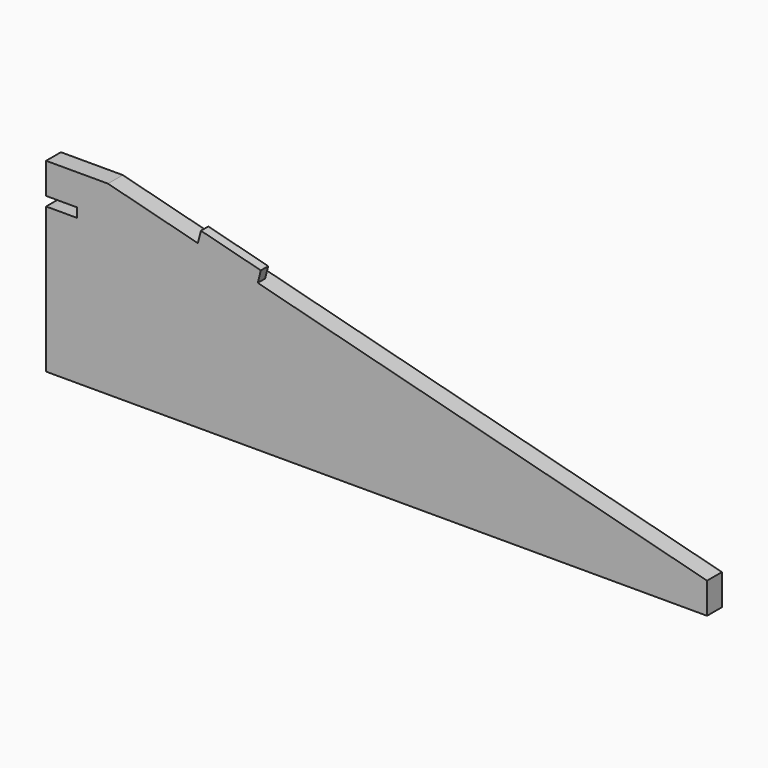
from build123d import *

# Parameters (mm, degrees)
F1_DEPTH = 3
F3_DEPTH = 3


with BuildPart() as f1:
    # F0 (on Front) → F1 (new body)
    with BuildSketch(Plane.XZ):
        Polygon((146.8245836552, -25), (50, 0), (30, 0), (30, -10), (40, -10), (40, -13), (30, -13), (30, -60), (243.6491673104, -60), (243.6491673104, -50), align=None)
        Polygon((126.4596669241, -23.8729833462), (145.8245836552, -28.8729833462), (165.1895003862, -33.8729833462), (164.4395003862, -36.7777208559), (125.7096669241, -26.7777208559), align=None, mode=Mode.SUBTRACT)
    extrude(amount=F1_DEPTH)

    # F2 (on face) + F0 (on Front) → F3 (join)
    with BuildSketch(Plane.XZ.offset(3)):
        Polygon((98.4122918276, -12.5), (79.0473750966, -7.5), (50, 0), (30, 0), (30, -10), (40, -10), (40, -13), (30, -13), (30, -60), (243.6491673104, -60), (243.6491673104, -50), (214.6017922138, -42.5), (195.2368754828, -37.5), align=None)
        Polygon((125.7096669241, -26.7777208559), (126.4596669241, -23.8729833462), (165.1895003862, -33.8729833462), (164.4395003862, -36.7777208559), align=None, mode=Mode.SUBTRACT)
        Polygon((165.1895003862, -33.8729833462), (126.4596669241, -23.8729833462), (125.7096669241, -26.7777208559), (164.4395003862, -36.7777208559), align=None)
        Polygon((80.0473750966, -3.6270166538), (79.0473750966, -7.5), (98.4122918276, -12.5), (99.4122918276, -8.6270166538), align=None)
    with BuildSketch(Plane.XZ):
        Polygon((146.8245836552, -25), (50, 0), (30, 0), (30, -10), (40, -10), (40, -13), (30, -13), (30, -60), (243.6491673104, -60), (243.6491673104, -50), align=None)
        Polygon((126.4596669241, -23.8729833462), (145.8245836552, -28.8729833462), (165.1895003862, -33.8729833462), (164.4395003862, -36.7777208559), (125.7096669241, -26.7777208559), align=None, mode=Mode.SUBTRACT)
    extrude(amount=-F3_DEPTH)


solid = f1.part
